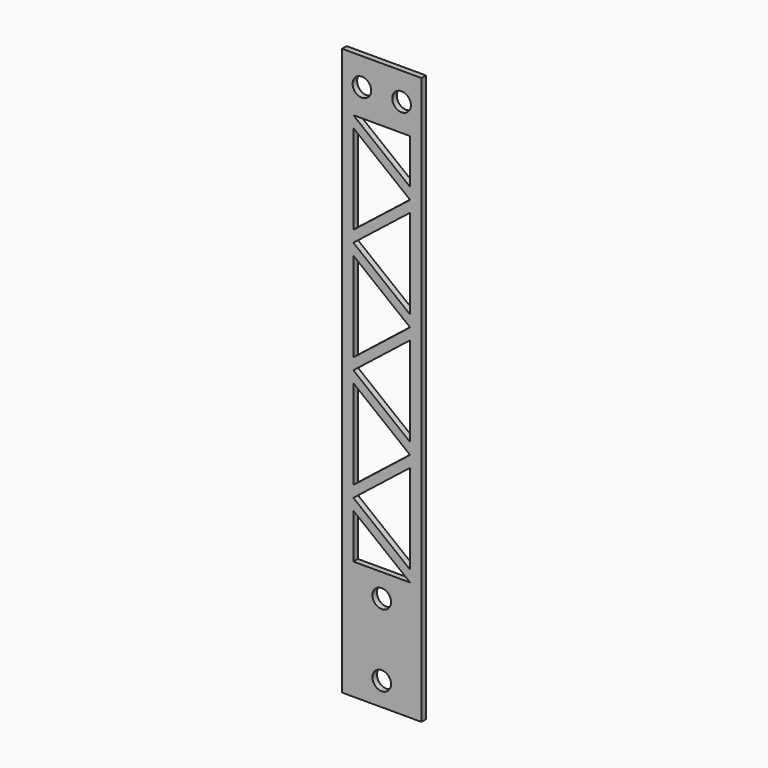
from build123d import *

# Parameters (mm, degrees)
F0_W     = 14
F0_H     = 100
F0_R     = 1.64
F1_DEPTH = 1


with BuildPart() as f1:
    # F0 (on Front) → F1 (new body)
    with BuildSketch(Plane.XZ):
        with Locations((-0.146341, 1.690268)):
            Rectangle(F0_W, F0_H)
        with Locations((-0.146341, -44.184732)):
            Circle(F0_R, mode=Mode.SUBTRACT)
        with Locations((-0.146341, -31.434732)):
            Circle(F0_R, mode=Mode.SUBTRACT)
        Polygon((-5.146341, -19.405732), (4.853659, -27.309732), (-5.146341, -27.309732), align=None, mode=Mode.SUBTRACT)
        Polygon((-5.146341, -17.405732), (4.853659, -9.501732), (4.853659, -25.309732), align=None, mode=Mode.SUBTRACT)
        Polygon((-5.146341, -15.405732), (-5.146341, 0.402268), (4.853659, -7.501732), align=None, mode=Mode.SUBTRACT)
        Polygon((4.853659, -5.499732), (-5.146341, 2.404268), (4.853659, 10.308268), align=None, mode=Mode.SUBTRACT)
        Polygon((-5.146341, 20.212268), (4.853659, 12.308268), (-5.146341, 4.404268), align=None, mode=Mode.SUBTRACT)
        Polygon((-5.146341, 22.214268), (4.853659, 30.118268), (4.853659, 14.310268), align=None, mode=Mode.SUBTRACT)
        Polygon((4.853659, 32.118268), (-5.146341, 24.214268), (-5.146341, 40.022268), align=None, mode=Mode.SUBTRACT)
        Polygon((-5.146341, 42.024268), (4.853659, 42.024268), (4.853659, 34.120268), align=None, mode=Mode.SUBTRACT)
        with Locations((-3.646341, 46.857268)):
            Circle(F0_R, mode=Mode.SUBTRACT)
        with Locations((3.353659, 46.857268)):
            Circle(F0_R, mode=Mode.SUBTRACT)
    extrude(amount=F1_DEPTH)


solid = f1.part
